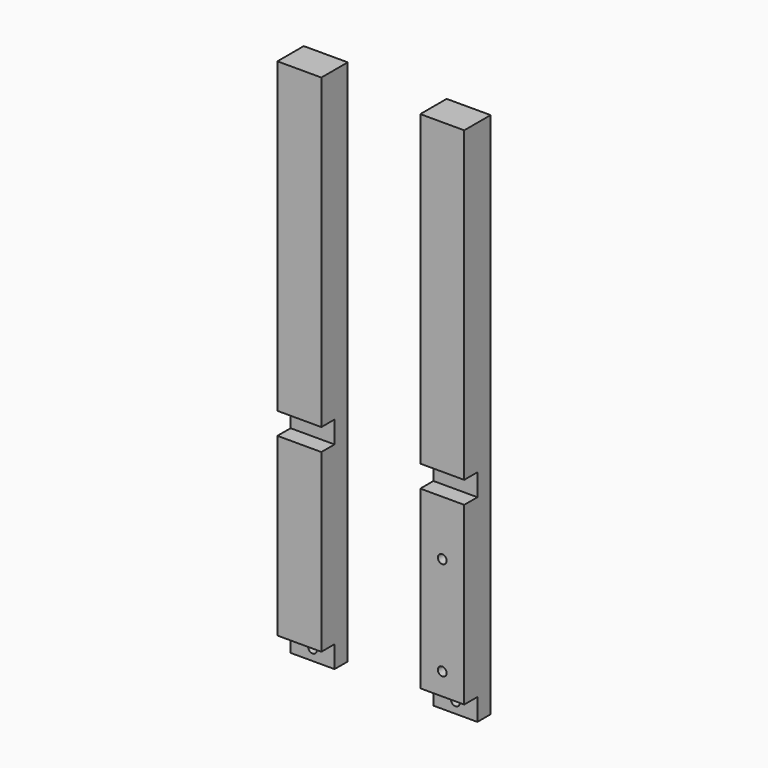
from build123d import *

# Parameters (mm, degrees)
F0_W     = 20
F0_H     = 240
F1_DEPTH = 15
F2_W     = 20
F2_H     = 10
F3_DEPTH = 7.5
F4_R     = 2
F5_DEPTH = 5
F7_R     = 2
F8_DEPTH = 5


with BuildPart() as f1:
    # F0 (on Front) → F1 (new body)
    with BuildSketch(Plane.XZ):
        with Locations((-28.814657, 45.135572)):
            Rectangle(F0_W, F0_H)
    extrude(amount=F1_DEPTH)

    # F2 (on face) → F3 (cut)
    with BuildSketch(Plane.XZ.offset(15)):
        with Locations((-28.814657, -69.864428)):
            Rectangle(F2_W, F2_H)
        with Locations((-28.814657, 20.135572)):
            Rectangle(F2_W, F2_H)
    extrude(amount=-F3_DEPTH, mode=Mode.SUBTRACT)

    # F4 (on face) → F5 (cut)
    with BuildSketch(Plane.XZ.offset(7.5)):
        with Locations((-28.814657, -69.864428)):
            Circle(F4_R)
    extrude(amount=-F5_DEPTH, mode=Mode.SUBTRACT)


with BuildPart() as f6_1:
    # F6: copy of F1
    add(f1.part.moved(Location((65, 0, 0))))

    # F7 (on face) → F8 (cut)
    with BuildSketch(Plane.XZ.offset(15)):
        with Locations((36.185343, -9.864428)):
            Circle(F7_R)
        with Locations((36.185343, -54.864428)):
            Circle(F7_R)
    extrude(amount=-F8_DEPTH, mode=Mode.SUBTRACT)


solid = Compound([f1.part, f6_1.part])
